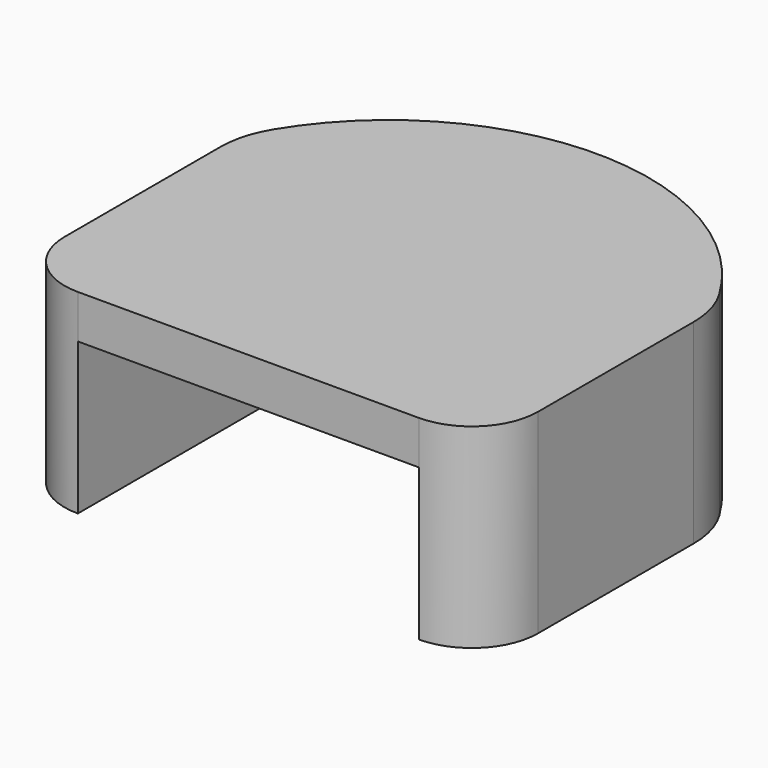
from build123d import *

# Parameters (mm, degrees)
F1_DEPTH = 103
F3_DEPTH = 80


with BuildPart() as f1:
    # F0 (on Top) → F1 (new body)
    with BuildSketch(Plane.XY):
        with BuildLine():
            Line((-90, -115), (90, -115))
            ThreePointArc((90, -115), (114.748737, -104.748737), (125, -80))
            Line((125, -80), (125, 22.715748))
            ThreePointArc((125, 22.715748), (123.161382, 36.15008), (117.780749, 48.596388))
            ThreePointArc((117.780749, 48.596388), (0, 115), (-117.780749, 48.596388))
            ThreePointArc((-117.780749, 48.596388), (-123.161382, 36.15008), (-125, 22.715748))
            Line((-125, 22.715748), (-125, -80))
            ThreePointArc((-125, -80), (-114.748737, -104.748737), (-90, -115))
        make_face()
    extrude(amount=F1_DEPTH)

    # F2 (on Top) → F3 (cut)
    with BuildSketch(Plane.XY):
        with BuildLine():
            Line((-90.000004, -133.302534), (90.000004, -133.302534))
            Line((90.000004, -133.302534), (90.000004, 22.715748))
            ThreePointArc((90.000004, 22.715748), (89.448418, 26.746048), (87.834228, 30.479942))
            ThreePointArc((87.834228, 30.479942), (0, 80.000004), (-87.834228, 30.479942))
            ThreePointArc((-87.834228, 30.479942), (-89.448418, 26.746048), (-90.000004, 22.715748))
            Line((-90.000004, 22.715748), (-90.000004, -133.302534))
        make_face()
    extrude(amount=F3_DEPTH, mode=Mode.SUBTRACT)


solid = f1.part
